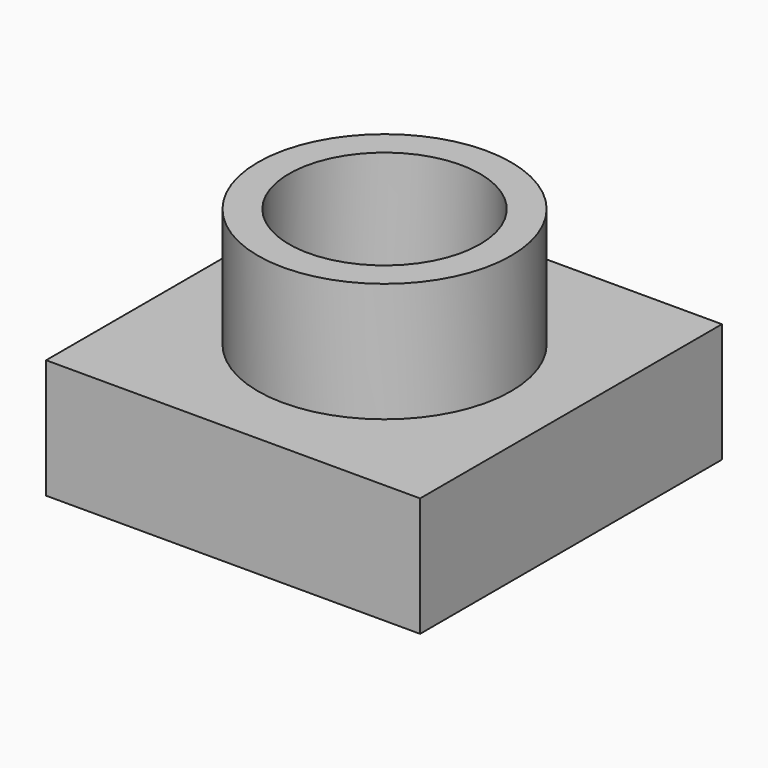
from build123d import *

# Parameters (mm, degrees)
F0_W     = 79.663638
F0_H     = 80.356363
F0_R     = 19.675095
F1_DEPTH = 25.4
F2_R     = 26.963272
F2_R_2   = 20.336066
F3_DEPTH = 25.4


with BuildPart() as f1:
    # F0 (on Top) → F1 (new body)
    with BuildSketch(Plane.XY):
        with Locations((-0.577273, 0.577272)):
            Rectangle(F0_W, F0_H)
        Circle(F0_R, mode=Mode.SUBTRACT)
    extrude(amount=F1_DEPTH)

    # F2 (on face) → F3 (join)
    with BuildSketch(Plane.XY.offset(25.4)):
        Circle(F2_R)
        Circle(F2_R_2, mode=Mode.SUBTRACT)
    extrude(amount=F3_DEPTH)


solid = f1.part
